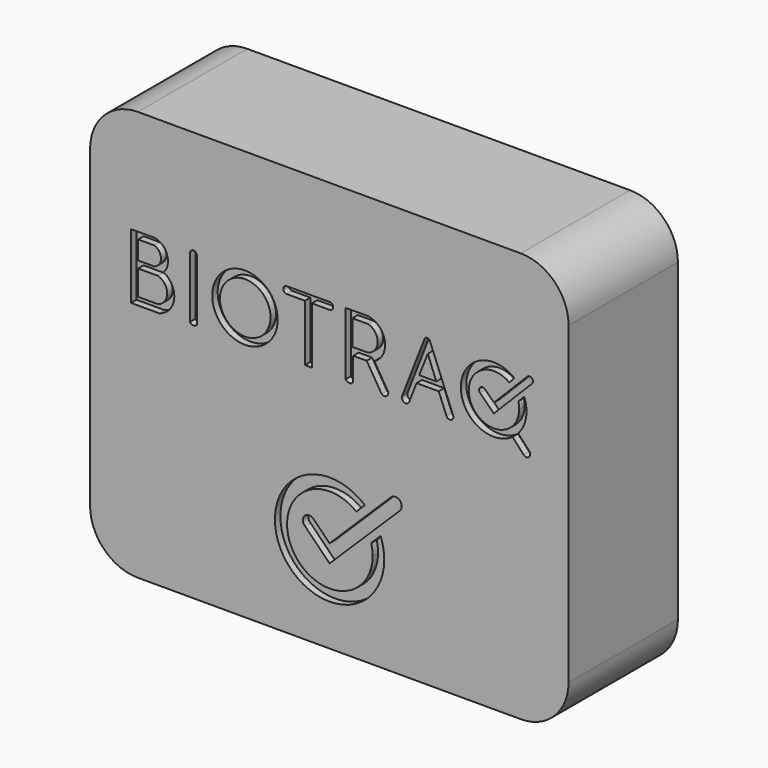
from build123d import *

# Parameters (mm, degrees)
F0_W     = 70
F0_H     = 60
F1_DEPTH = 20
F2_R     = 7
F3_T     = -3
F4_R     = 4.7885075057
F4_R_2   = 3.7026235456
F5_DEPTH = 1


with BuildPart() as f1:
    # F0 (on Front) → F1 (new body)
    with BuildSketch(Plane.XZ):
        Rectangle(F0_W, F0_H)
    extrude(amount=F1_DEPTH)

    # F2
    f2_edges = [f1.edges().sort_by_distance(p)[0] for p in [
        (35, -10, -30),
        (-35, -10, -30),
        (35, -10, 30),
        (-35, -10, 30),
    ]]
    fillet(f2_edges, radius=F2_R)

    # F3
    f3_openings = [f1.faces().sort_by_distance(p)[0] for p in [
        (0, 0, 0),
    ]]
    offset(amount=F3_T, openings=f3_openings)

    # F4 (on face) → F5 (cut)
    with BuildSketch(Plane.XZ.offset(20)):
        with BuildLine():
            ThreePointArc((5.9756954083, -21.3208798361), (7.5060376285, -18.8306109679), (8.0398977368, -15.9568712908))
            ThreePointArc((8.0398977368, -15.9568712908), (7.9036150749, -14.4863732956), (7.4994094473, -13.0659666184))
            Line((7.4994094473, -13.0659666184), (6.1305917901, -14.4159711191))
            ThreePointArc((6.1305917901, -14.4159711191), (6.2842749217, -15.2041179655), (6.3357852508, -16.0054547502))
            ThreePointArc((6.3357852508, -16.0054547502), (-5.5540754685, -18.7377869694), (3.9501702088, -11.0890131208))
            Line((3.9501702088, -11.0890131208), (5.196705387, -9.840010404))
            ThreePointArc((5.196705387, -9.840010404), (-7.9557042611, -15.6118703464), (4.6505361801, -22.4953976897))
            ThreePointArc((4.6505361801, -22.4953976897), (5.3457061154, -21.9449090553), (5.9756954083, -21.3208798361))
        make_face()
        with BuildLine():
            Line((0.0383761635, -19.0379637991), (5.7637177193, -13.3913118671))
            ThreePointArc((5.7637177193, -13.3913118671), (5.3063853455, -12.5665425426), (4.7303228045, -11.8198503118))
            Line((4.7303228045, -11.8198503118), (0.0383761635, -16.4483864674))
            Line((0.0383761635, -16.4483864674), (-2.3087403007, -14.0691147408))
            ThreePointArc((-2.3087403007, -14.0691147408), (-3.6156147651, -14.0808212911), (-3.5627264086, -15.386677612))
            Line((-3.5627264086, -15.386677612), (0.0383761635, -19.0379637991))
        make_face()
        with BuildLine():
            Line((5.7637177193, -13.3913118671), (7.0574382874, -12.1153723141))
            ThreePointArc((7.0574382874, -12.1153723141), (6.5608204438, -11.3219960932), (5.9749529426, -10.5920410388))
            Line((5.9749529426, -10.5920410388), (4.7303228045, -11.8198503118))
            ThreePointArc((4.7303228045, -11.8198503118), (5.3063853455, -12.5665425426), (5.7637177193, -13.3913118671))
        make_face()
        with BuildLine():
            ThreePointArc((5.9749529426, -10.5920410388), (6.5608204438, -11.3219960932), (7.0574382874, -12.1153723141))
            Line((7.0574382874, -12.1153723141), (10.3152280376, -8.9023579275))
            ThreePointArc((10.3152280376, -8.9023579275), (10.3242561937, -7.5976353085), (9.0195335747, -7.5886071525))
            Line((9.0195335747, -7.5886071525), (5.9749529426, -10.5920410388))
        make_face()
        with BuildLine():
            Line((-25.463836038, 14.5788419077), (-29.0132504877, 14.5788419077))
            Line((-29.0132504877, 14.5788419077), (-29.0132504877, 5.0767470373))
            Line((-29.0132504877, 5.0767470373), (-24.9086179807, 5.0767470373))
            ThreePointArc((-24.9086179807, 5.0767470373), (-22.7022924412, 7.5970867281), (-24.2285804935, 10.5787690258))
            ThreePointArc((-24.2285804935, 10.5787690258), (-23.7062839611, 12.9308235072), (-25.463836038, 14.5788419077))
        make_face()
        with BuildLine():
            Line((-27.9734000776, 10.8749483858), (-27.9734000776, 13.5894283968))
            Line((-27.9734000776, 13.5894283968), (-25.6162118383, 13.5894283968))
            ThreePointArc((-25.6162118383, 13.5894283968), (-24.6244842165, 12.2231458353), (-25.6406610471, 10.8749483858))
            Line((-25.6406610471, 10.8749483858), (-27.9734000776, 10.8749483858))
        make_face(mode=Mode.SUBTRACT)
        with BuildLine():
            Line((-27.9640843056, 9.8444300713), (-25.0821946304, 9.8444300713))
            ThreePointArc((-25.0821946304, 9.8444300713), (-23.7118512956, 8.0211258), (-25.0821946304, 6.1978215287))
            Line((-25.0821946304, 6.1978215287), (-27.9640843056, 6.188870993))
            Line((-27.9640843056, 6.188870993), (-27.9640843056, 9.8444300713))
        make_face(mode=Mode.SUBTRACT)
        with BuildLine():
            ThreePointArc((-19.3660976033, 14.2887552617), (-19.8752782584, 14.8065162395), (-20.40147499, 14.30605808))
            Line((-20.40147499, 14.30605808), (-20.40147499, 5.4078511567))
            ThreePointArc((-20.40147499, 5.4078511567), (-19.884282799, 5.1317819915), (-19.3660976033, 5.405982738))
            Line((-19.3660976033, 5.405982738), (-19.3660976033, 14.2887552617))
        make_face()
        with Locations((-12.3437182241, 9.891309084)):
            Circle(F4_R)
        with Locations((-12.3052396193, 9.8635797819)):
            Circle(F4_R_2, mode=Mode.SUBTRACT)
        Polygon((0.060495557, 14.6499899539), (-6.2339946938, 14.6499899539), (-6.2279876776, 13.6288518889), (-3.5691043968, 13.6288518889), (-3.5691043968, 5.3356449452), (-2.5498712742, 5.3356449452), (-2.5498712742, 13.6288518889), (0.060495557, 13.6288518889), align=None)
        with BuildLine():
            ThreePointArc((0.060495557, 13.6288518889), (0.5710645895, 14.1394209214), (0.060495557, 14.6499899539))
            Line((0.060495557, 14.6499899539), (0.060495557, 13.6288518889))
        make_face()
        with BuildLine():
            Line((-6.2279876776, 13.6288518889), (-6.2339946938, 14.6499899539))
            ThreePointArc((-6.2339946938, 14.6499899539), (-6.7385655444, 14.13643503), (-6.2279876776, 13.6288518889))
        make_face()
        with BuildLine():
            Line((5.68894728, 14.6499899539), (2.3992179348, 14.6499899539))
            Line((2.3992179348, 14.6499899539), (2.3992179348, 5.4546332436))
            ThreePointArc((2.3992179348, 5.4546332436), (2.9464930191, 5.1446017563), (3.4937681035, 5.4546332436))
            Line((3.4937681035, 5.4546332436), (3.4937681035, 8.8353623544))
            Line((3.4937681035, 8.8353623544), (5.4684750956, 8.8353623544))
            Line((5.4684750956, 8.8353623544), (7.6643496496, 5.2591634276))
            ThreePointArc((7.6643496496, 5.2591634276), (8.3467179976, 5.2108037756), (8.6122971182, 5.8412266091))
            Line((8.6122971182, 5.8412266091), (6.5826675849, 9.1466790748))
            ThreePointArc((6.5826675849, 9.1466790748), (8.1293427353, 12.2220783511), (5.68894728, 14.6499899539))
        make_face()
        with BuildLine():
            ThreePointArc((5.68894728, 13.6319459919), (7.0831009819, 11.7494924749), (5.5949211536, 9.9404549997))
            Line((5.5949211536, 9.9404549997), (3.3746365671, 9.9404549997))
            Line((3.3746365671, 9.9404549997), (3.3746365671, 13.6319459919))
            Line((3.3746365671, 13.6319459919), (5.68894728, 13.6319459919))
        make_face(mode=Mode.SUBTRACT)
        with BuildLine():
            ThreePointArc((14.7096056189, 14.4168665306), (14.3134062852, 14.6801129854), (13.9264534318, 14.4034541752))
            Line((13.9264534318, 14.4034541752), (10.6487381189, 5.9825136642))
            ThreePointArc((10.6487381189, 5.9825136642), (10.9675570687, 5.2573357806), (11.6927349523, 5.5761547304))
            Line((11.6927349523, 5.5761547304), (12.7655428348, 8.3323585177))
            Line((12.7655428348, 8.3323585177), (16.0099739306, 8.3323585177))
            Line((16.0099739306, 8.3323585177), (17.1330149852, 5.5268825081))
            ThreePointArc((17.1330149852, 5.5268825081), (17.8181026735, 5.2334854183), (18.1114997633, 5.9185731066))
            Line((18.1114997633, 5.9185731066), (14.7096056189, 14.4168665306))
        make_face()
        Polygon((13.1405137187, 9.48174586), (14.4126430381, 12.6535973069), (15.6418385154, 9.48174586), align=None, mode=Mode.SUBTRACT)
        with BuildLine():
            ThreePointArc((27.6586074546, 10.8364686124), (27.7543057203, 10.3589358747), (27.7863908123, 9.8729665129))
            ThreePointArc((27.7863908123, 9.8729665129), (20.7773970324, 8.2330148821), (26.3312045231, 12.8123879303))
            Line((26.3312045231, 12.8123879303), (27.0641849046, 13.6325057938))
            ThreePointArc((27.0641849046, 13.6325057938), (19.2418374627, 10.0479724553), (26.81568619, 5.9644918061))
            ThreePointArc((26.81568619, 5.9644918061), (27.2455005085, 6.3059753785), (27.6335724386, 6.6942427552))
            ThreePointArc((27.6335724386, 6.6942427552), (28.5370532464, 8.1811527366), (28.851969289, 9.8922946796))
            ThreePointArc((28.851969289, 9.8922946796), (28.7631907726, 10.8118138528), (28.5001349107, 11.6973638223))
            Line((28.5001349107, 11.6973638223), (27.6586074546, 10.8364686124))
        make_face()
        with BuildLine():
            Line((24.0681641205, 8.0956717688), (27.4159314963, 11.4858697823))
            ThreePointArc((27.4159314963, 11.4858697823), (27.1680184196, 11.9196861576), (26.8638629672, 12.316103869))
            Line((26.8638629672, 12.316103869), (24.0900374708, 9.5071220515))
            Line((24.0900374708, 9.5071220515), (22.775273925, 10.8054304358))
            ThreePointArc((22.775273925, 10.8054304358), (22.0626570945, 10.8039400184), (22.0641475119, 10.0913231879))
            Line((22.0641475119, 10.0913231879), (24.0681641205, 8.0956717688))
        make_face()
        with BuildLine():
            ThreePointArc((27.6335724386, 6.6942427552), (27.2455005085, 6.3059753785), (26.81568619, 5.9644918061))
            Line((26.81568619, 5.9644918061), (28.4407067429, 4.1904454021))
            ThreePointArc((28.4407067429, 4.1904454021), (29.214969102, 4.1564992903), (29.2489152138, 4.9307616493))
            Line((29.2489152138, 4.9307616493), (27.6335724386, 6.6942427552))
        make_face()
        with BuildLine():
            ThreePointArc((27.6311249444, 13.0930903614), (27.9416464389, 12.7068871234), (28.2107508353, 12.2907629071))
            Line((28.2107508353, 12.2907629071), (29.647856175, 13.7460825638))
            ThreePointArc((29.647856175, 13.7460825638), (29.6435095117, 14.4363306609), (28.9532614146, 14.4319839976))
            Line((28.9532614146, 14.4319839976), (27.6311249444, 13.0930903614))
        make_face()
        with BuildLine():
            ThreePointArc((26.8638629672, 12.316103869), (27.1680184196, 11.9196861576), (27.4159314963, 11.4858697823))
            Line((27.4159314963, 11.4858697823), (28.2107508353, 12.2907629071))
            ThreePointArc((28.2107508353, 12.2907629071), (27.9416464389, 12.7068871234), (27.6311249444, 13.0930903614))
            Line((27.6311249444, 13.0930903614), (26.8638629672, 12.316103869))
        make_face()
    extrude(amount=-F5_DEPTH, mode=Mode.SUBTRACT)


solid = f1.part
